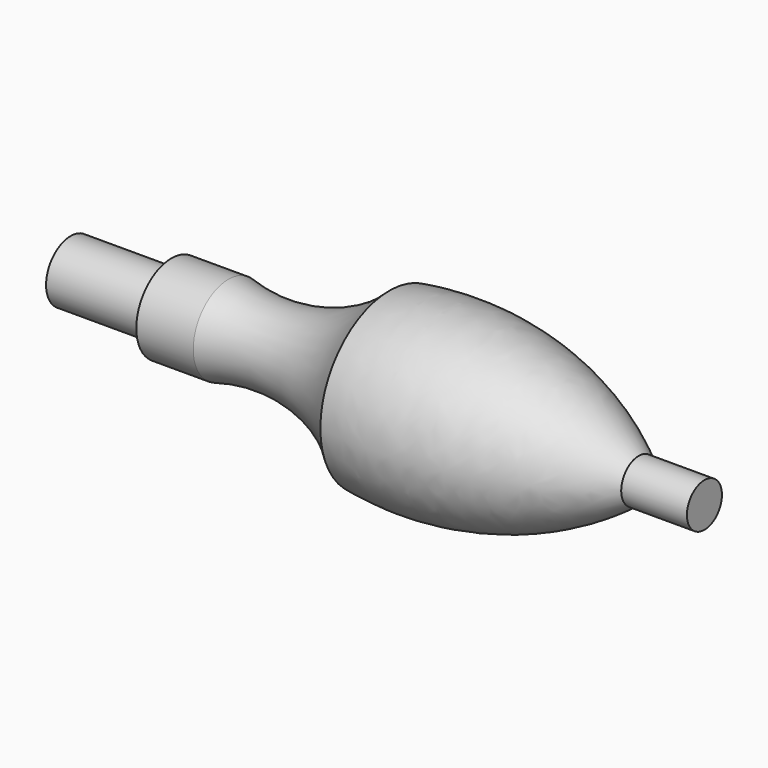
from build123d import *


with BuildPart() as f1:
    # F0 (on Top) → F1 (revolve)
    with BuildSketch(Plane.XY):
        with BuildLine():
            Line((-84, -7), (-61, -7))
            Line((-61, -7), (-61, -10))
            Line((-61, -10), (-48, -10))
            ThreePointArc((-48, -10), (-28.329951, -9.91159), (-11.250984, -19.670049))
            ThreePointArc((-11.250984, -19.670049), (18.713681, -18.146554), (45.683484, -5))
            Line((45.683484, -5), (60.683484, -5))
            Line((60.683484, -5), (60.683484, 0))
            Line((60.683484, 0), (-84, 0))
            Line((-84, 0), (-84, -7))
        make_face()
    revolve(axis=Axis((-11.658258, 0, 0), (-1, 0, 0)))


solid = f1.part
